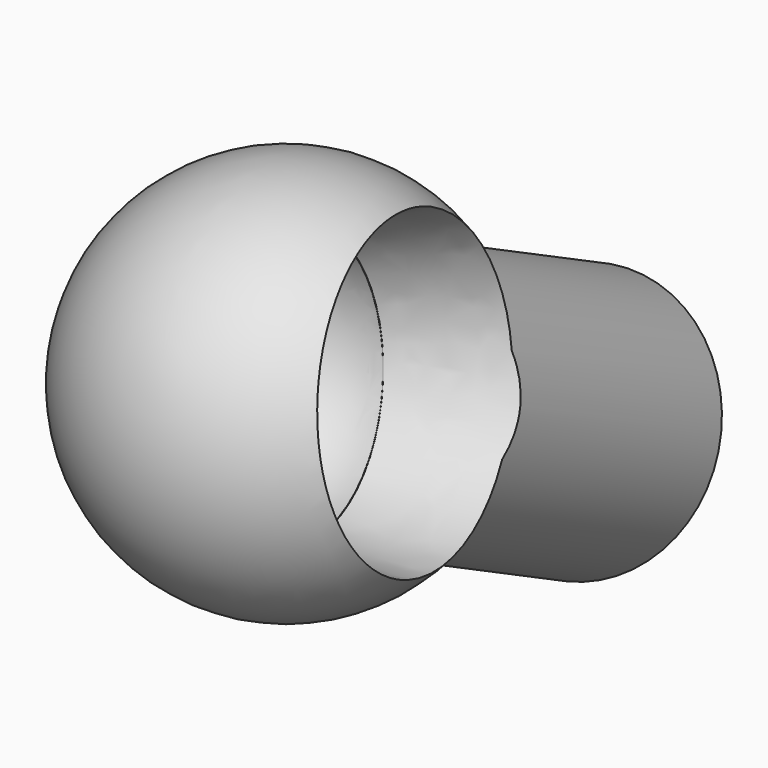
from build123d import *

# Parameters (mm, degrees)
SKETCH004_R             = 5
SKETCH004_R_2           = 4
PAD002_DEPTH            = 12.5
SKETCH006_R             = 5
SKETCH007_R             = 6.5
BODY001_ROLL_ANGLE      = 62.539133
BODY001_PITCH_ANGLE     = -10.591695
BODY001_PLACEMENT_ANGLE = 8.882862


with BuildPart() as part:
    # Sketch004 → Pad002 (new body)
    with BuildSketch(Plane.XY):
        Circle(SKETCH004_R)
        Circle(SKETCH004_R_2, mode=Mode.SUBTRACT)
    extrude(amount=PAD002_DEPTH)

    # Sketch005 → Revolution002 (revolve)
    with BuildSketch(Plane.YZ):
        with BuildLine():
            ThreePointArc((0, 10.59017), (7.5, 18.09017), (0, 25.59017))
            Line((0, 25.59017), (0, 23.09017))
            ThreePointArc((0, 13.09017), (5, 18.09017), (0, 23.09017))
            Line((0, 13.09017), (0, 10.59017))
        make_face()
    revolve(axis=Axis((0, 0, 0), (0, 0, 1)))

    # Sketch006 (on DatumPlane) → SubtractiveLoft section 0
    with BuildSketch(Plane.YZ.offset(0.5)):
        with Locations((0, 18.1)):
            Circle(SKETCH006_R)
    # Sketch007 (on DatumPlane) → SubtractiveLoft section 1
    with BuildSketch(Plane.YZ.offset(8)):
        with Locations((0, 18.081013)):
            Circle(SKETCH007_R)
    loft(mode=Mode.SUBTRACT)


with BuildPart() as part_1:
    # Body001 roll: moved
    add(part.part.rotate(Axis((0, 0, 0), (1, 0, 0)), BODY001_ROLL_ANGLE))


with BuildPart() as part_2:
    # Body001 pitch: moved
    add(part_1.part.rotate(Axis((0, 0, 0), (0, 1, 0)), BODY001_PITCH_ANGLE))


with BuildPart() as part_3:
    # Body001 placement: moved
    add(part_2.part.moved(Location((25.136332, 16.096128, 11.699976))).rotate(Axis((25.136332, 16.096128, 11.699976), (0, 0, 1)), BODY001_PLACEMENT_ANGLE))


solid = part_3.part
